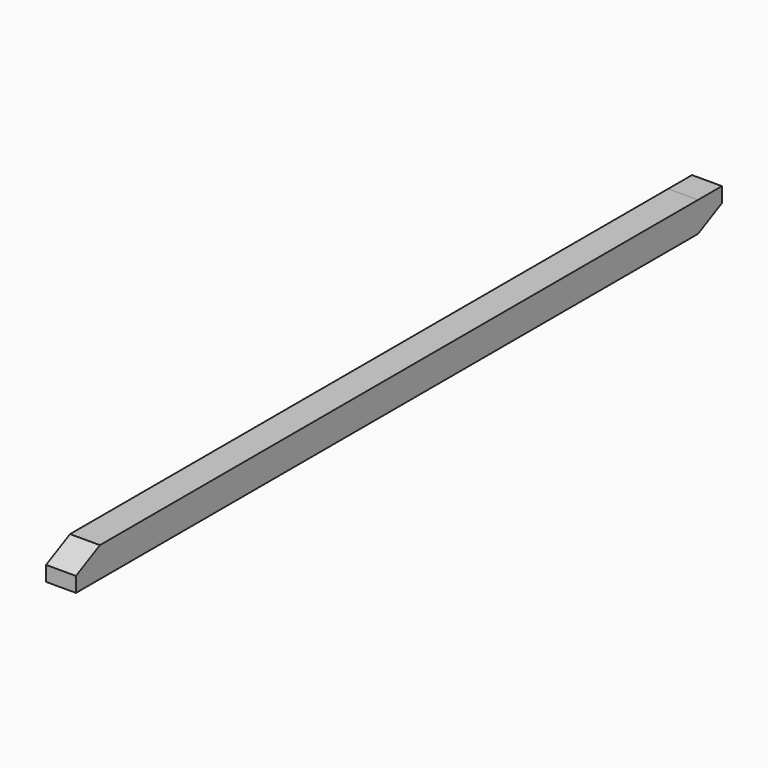
from build123d import *

# Parameters (mm, degrees)
F0_W     = 5.06967
F0_H     = 2.542265
F0_W_2   = 5.079322
F0_H_2   = 2.542266
F1_DEPTH = 5.08


with BuildPart() as f1:
    # F0 (on Right) → F1 (new body)
    with BuildSketch(Plane.YZ):
        Polygon((51.305342, 8.875748), (-75.701691, 8.875748), (-75.701691, 6.333483), (-75.701691, 3.791217), (51.305342, 3.791217), (51.305342, 6.333483), align=None)
        Polygon((-75.701691, 6.333483), (-75.701691, 8.875748), (-80.781013, 6.333483), align=None)
        with Locations((53.840177, 7.604615)):
            Rectangle(F0_W, F0_H)
        with Locations((-78.241352, 5.06235)):
            Rectangle(F0_W_2, F0_H_2)
        Polygon((56.375012, 6.333483), (51.305342, 6.333483), (51.305342, 3.791217), align=None)
    extrude(amount=F1_DEPTH)


solid = f1.part
